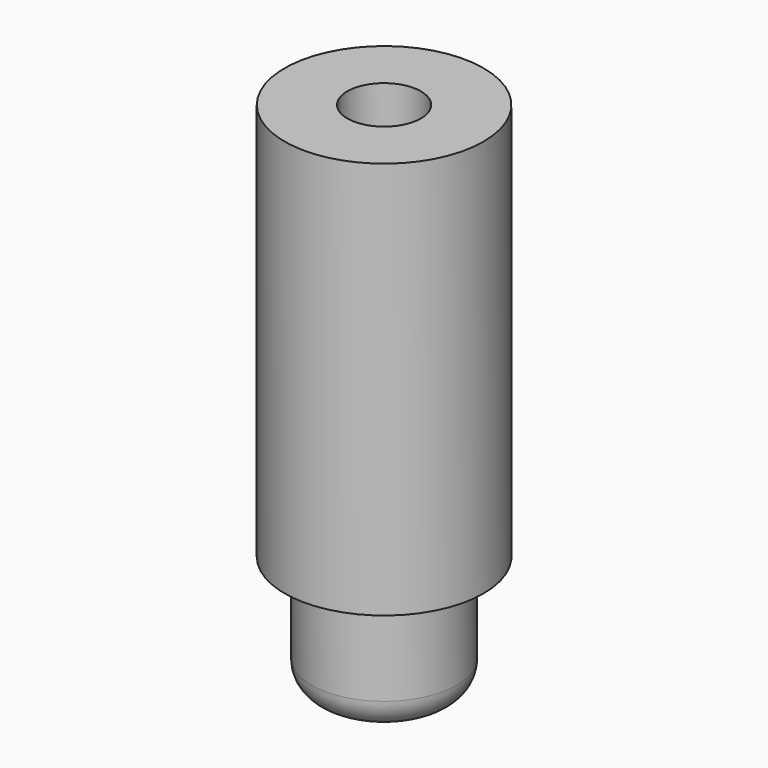
from build123d import *

# Parameters (mm, degrees)
SKETCH_R     = 5
PAD_DEPTH    = 20
SKETCH001_R  = 1.85
POCKET_DEPTH = 9
SKETCH002_R  = 3.65
PAD001_DEPTH = 6
FILLET_R     = 1.5


with BuildPart() as part:
    # Sketch → Pad (new body)
    with BuildSketch(Plane.XY):
        Circle(SKETCH_R)
    extrude(amount=PAD_DEPTH)

    # Sketch001 (on Face3 of Pad) → Pocket (cut)
    with BuildSketch(Plane.XY.offset(20)):
        Circle(SKETCH001_R)
    extrude(amount=-POCKET_DEPTH, mode=Mode.SUBTRACT)

    # Sketch002 (on Face2 of Pocket) → Pad001 (join)
    with BuildSketch(Plane(origin=(0, 0, 0), x_dir=(1, 0, 0), z_dir=(0, 0, -1))):
        Circle(SKETCH002_R)
    extrude(amount=PAD001_DEPTH)

    # Fillet
    fillet_edges = [part.edges().sort_by_distance(p)[0] for p in [
        (-3.65, 0, -6),
    ]]
    fillet(fillet_edges, radius=FILLET_R)


solid = part.part
